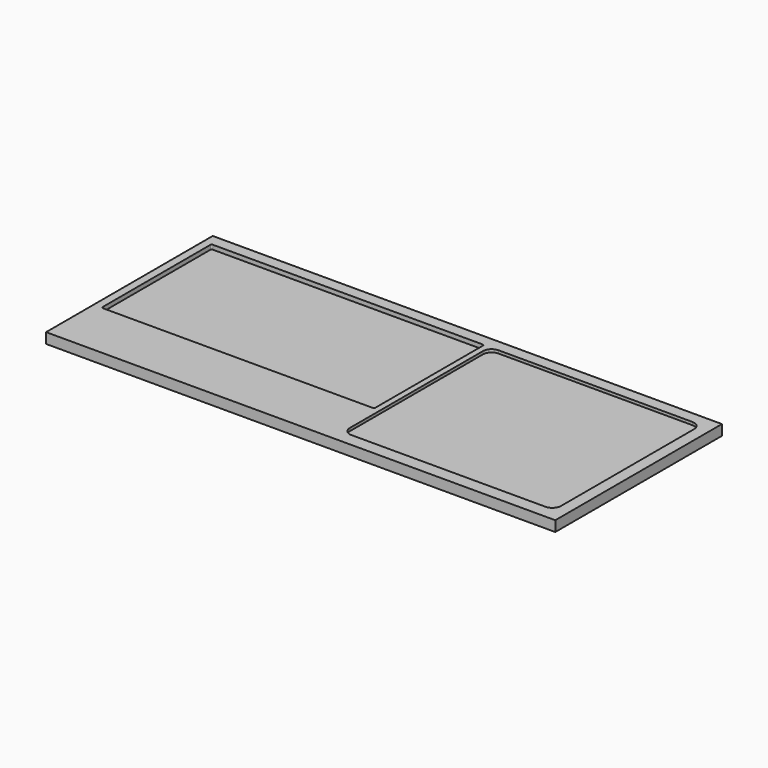
from build123d import *

# Parameters (mm, degrees)
F0_W     = 558.8
F0_H     = 228.6
F1_DEPTH = 11.43
F2_DEPTH = 4.7625
F3_DEPTH = 3.175


with BuildPart() as f1:
    # F0 (on Top) → F1 (new body)
    with BuildSketch(Plane.XY):
        with Locations((-150.8125, -0.79375)):
            Rectangle(F0_W, F0_H)
        with BuildLine():
            ThreePointArc((-421.48125, 99.21875), (-421.016282, 100.341282), (-419.89375, 100.80625))
            Line((-419.89375, 100.80625), (-123.825, 100.80625))
            ThreePointArc((-123.825, 100.80625), (-122.702468, 100.341282), (-122.2375, 99.21875))
            Line((-122.2375, 99.21875), (-122.2375, -48.41875))
            ThreePointArc((-122.2375, -48.41875), (-122.702468, -49.541282), (-123.825, -50.00625))
            Line((-123.825, -50.00625), (-419.89375, -50.00625))
            ThreePointArc((-419.89375, -50.00625), (-421.016282, -49.541282), (-421.48125, -48.41875))
            Line((-421.48125, -48.41875), (-421.48125, 99.21875))
        make_face(mode=Mode.SUBTRACT)
        with BuildLine():
            Line((-106.3625, 100.80625), (106.3625, 100.80625))
            ThreePointArc((106.3625, 100.80625), (113.097692, 98.016442), (115.8875, 91.28125))
            Line((115.8875, 91.28125), (115.8875, -91.28125))
            ThreePointArc((115.8875, -91.28125), (113.097692, -98.016442), (106.3625, -100.80625))
            Line((106.3625, -100.80625), (-106.3625, -100.80625))
            ThreePointArc((-106.3625, -100.80625), (-113.097692, -98.016442), (-115.8875, -91.28125))
            Line((-115.8875, -91.28125), (-115.8875, 91.28125))
            ThreePointArc((-115.8875, 91.28125), (-113.097692, 98.016442), (-106.3625, 100.80625))
        make_face(mode=Mode.SUBTRACT)
        with BuildLine():
            Line((-123.825, 100.80625), (-419.89375, 100.80625))
            ThreePointArc((-419.89375, 100.80625), (-421.016282, 100.341282), (-421.48125, 99.21875))
            Line((-421.48125, 99.21875), (-421.48125, -48.41875))
            ThreePointArc((-421.48125, -48.41875), (-421.016282, -49.541282), (-419.89375, -50.00625))
            Line((-419.89375, -50.00625), (-123.825, -50.00625))
            ThreePointArc((-123.825, -50.00625), (-122.702468, -49.541282), (-122.2375, -48.41875))
            Line((-122.2375, -48.41875), (-122.2375, 99.21875))
            ThreePointArc((-122.2375, 99.21875), (-122.702468, 100.341282), (-123.825, 100.80625))
        make_face()
        with BuildLine():
            ThreePointArc((115.8875, 91.28125), (113.097692, 98.016442), (106.3625, 100.80625))
            Line((106.3625, 100.80625), (-106.3625, 100.80625))
            ThreePointArc((-106.3625, 100.80625), (-113.097692, 98.016442), (-115.8875, 91.28125))
            Line((-115.8875, 91.28125), (-115.8875, -91.28125))
            ThreePointArc((-115.8875, -91.28125), (-113.097692, -98.016442), (-106.3625, -100.80625))
            Line((-106.3625, -100.80625), (106.3625, -100.80625))
            ThreePointArc((106.3625, -100.80625), (113.097692, -98.016442), (115.8875, -91.28125))
            Line((115.8875, -91.28125), (115.8875, 91.28125))
        make_face()
    extrude(amount=-F1_DEPTH)

    # F0 (on Top) → F2 (cut)
    with BuildSketch(Plane.XY):
        with BuildLine():
            Line((-123.825, 100.80625), (-419.89375, 100.80625))
            ThreePointArc((-419.89375, 100.80625), (-421.016282, 100.341282), (-421.48125, 99.21875))
            Line((-421.48125, 99.21875), (-421.48125, -48.41875))
            ThreePointArc((-421.48125, -48.41875), (-421.016282, -49.541282), (-419.89375, -50.00625))
            Line((-419.89375, -50.00625), (-123.825, -50.00625))
            ThreePointArc((-123.825, -50.00625), (-122.702468, -49.541282), (-122.2375, -48.41875))
            Line((-122.2375, -48.41875), (-122.2375, 99.21875))
            ThreePointArc((-122.2375, 99.21875), (-122.702468, 100.341282), (-123.825, 100.80625))
        make_face()
    extrude(amount=-F2_DEPTH, mode=Mode.SUBTRACT)

    # F0 (on Top) → F3 (cut)
    with BuildSketch(Plane.XY):
        with BuildLine():
            ThreePointArc((115.8875, 91.28125), (113.097692, 98.016442), (106.3625, 100.80625))
            Line((106.3625, 100.80625), (-106.3625, 100.80625))
            ThreePointArc((-106.3625, 100.80625), (-113.097692, 98.016442), (-115.8875, 91.28125))
            Line((-115.8875, 91.28125), (-115.8875, -91.28125))
            ThreePointArc((-115.8875, -91.28125), (-113.097692, -98.016442), (-106.3625, -100.80625))
            Line((-106.3625, -100.80625), (106.3625, -100.80625))
            ThreePointArc((106.3625, -100.80625), (113.097692, -98.016442), (115.8875, -91.28125))
            Line((115.8875, -91.28125), (115.8875, 91.28125))
        make_face()
    extrude(amount=-F3_DEPTH, mode=Mode.SUBTRACT)


solid = f1.part
